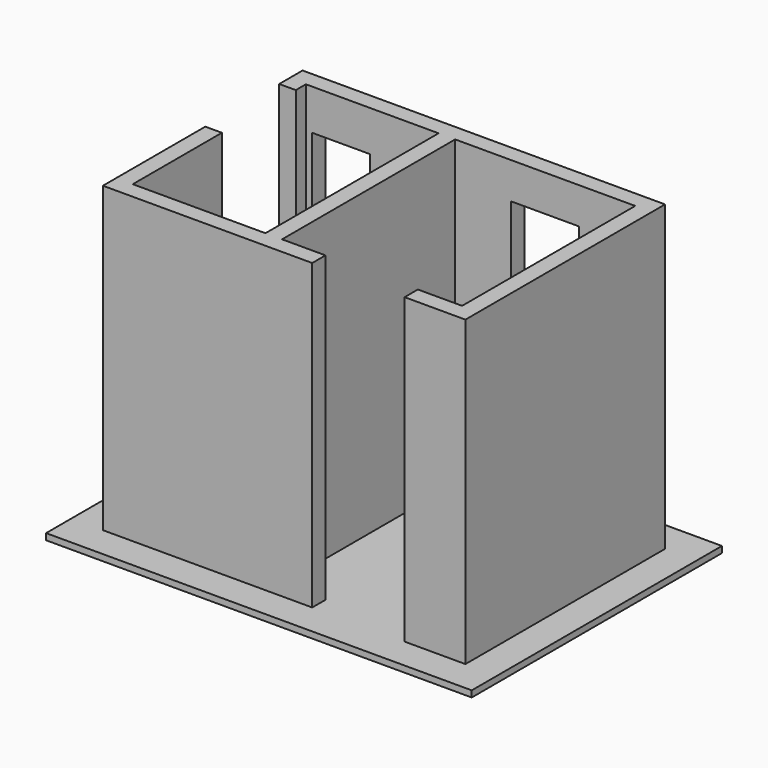
from build123d import *

# Parameters (mm, degrees)
F1_DEPTH = 2438.4
F4_W     = 463.55
F4_H     = 942.975
F4_W_2   = 546.1
F4_H_2   = 914.4
F5_DEPTH = 133.351
F6_W     = 3422.65
F6_H     = 2514.6
F7_DEPTH = 50.8


with BuildPart() as f1:
    # F0 (on Top) → F1 (new body)
    with BuildSketch(Plane.XY):
        Polygon((533.4, 869.95), (533.4, -869.95), (-533.4, -869.95), (-533.4, 25.4), (-666.75, 25.4), (-666.75, -1003.3), (1016, -1003.3), (1016, -869.95), (666.75, -869.95), (666.75, 869.95), (2114.55, 869.95), (2114.55, -869.95), (1758.95, -869.95), (1758.95, -1003.3), (2247.9, -1003.3), (2247.9, 1003.3), (-666.75, 1003.3), (-666.75, 768.35), (-533.4, 768.35), (-533.4, 869.95), align=None)
    extrude(amount=F1_DEPTH)

    # F4 (on face) → F5 (cut, through all)
    with BuildSketch(Plane.XZ.offset(-869.95)):
        with Locations((-250.825, 1639.8875)):
            Rectangle(F4_W, F4_H)
        with Locations((1390.65, 1689.1)):
            Rectangle(F4_W_2, F4_H_2)
    extrude(amount=-F5_DEPTH, mode=Mode.SUBTRACT)

    # F6 (on face) → F7 (join)
    with BuildSketch(Plane(origin=(0, 0, 0), x_dir=(1, 0, 0), z_dir=(0, 0, -1))):
        with Locations((790.575, 0)):
            Rectangle(F6_W, F6_H)
    extrude(amount=F7_DEPTH)


solid = f1.part
